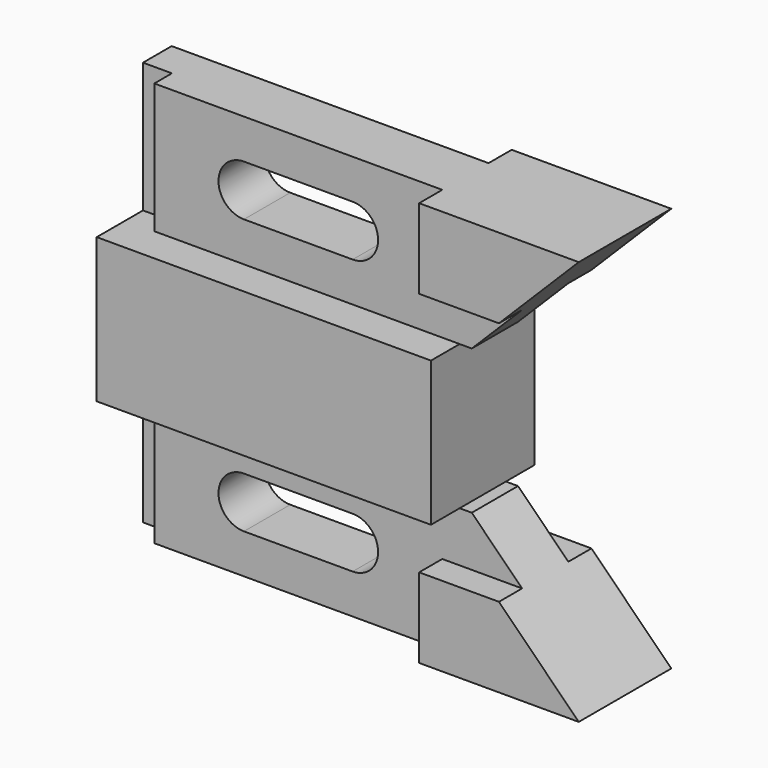
from build123d import *

# Parameters (mm, degrees)
F0_W      = 104.648
F0_H      = 88.9
F1_DEPTH  = 12.7
F2_W      = 69.596
F2_H      = 6.35
F3_DEPTH  = 28.575
F4_W      = 69.596
F4_H      = 6.35
F5_DEPTH  = 28.575
F10_DEPTH = 1.524
F11_W     = 31.242
F11_H     = 31.75
F12_DEPTH = 28.449
F14_W     = 6.35
F14_H     = 11.049
F15_DEPTH = 35.053
F17_W     = 6.35
F17_H     = 11.049
F20_DEPTH = 35.053
F19_W     = 6.35
F19_H     = 11.049
F21_DEPTH = 35.053
F22_W     = 6.35
F22_H     = 11.049
F23_DEPTH = 35.053
F25_DEPTH = 26.925
F27_DEPTH = 20.575
F29_DEPTH = 20.575


with BuildPart() as f1:
    # F0 (on Front) → F1 (new body, symmetric)
    with BuildSketch(Plane.XZ):
        Rectangle(F0_W, F0_H)
    extrude(amount=F1_DEPTH, both=True)

    # F2 (on face) → F3 (cut)
    with BuildSketch(Plane.XY.offset(44.45)):
        with Locations((-17.526, 9.525)):
            Rectangle(F2_W, F2_H)
        Polygon((-45.974, -1.524), (-52.324, -1.524), (-52.324, -12.7), (17.272, -12.7), (17.272, -6.35), (-45.974, -6.35), align=None)
    extrude(amount=-F3_DEPTH, mode=Mode.SUBTRACT)

    # F4 (on face) → F5 (cut)
    with BuildSketch(Plane(origin=(0, 0, -44.45), x_dir=(1, 0, 0), z_dir=(0, 0, -1))):
        Polygon((-45.974, 6.35), (17.272, 6.35), (17.272, 12.7), (-52.324, 12.7), (-52.324, 1.524), (-45.974, 1.524), align=None)
        with Locations((-17.526, -9.525)):
            Rectangle(F4_W, F4_H)
    extrude(amount=-F5_DEPTH, mode=Mode.SUBTRACT)

    # F9 (on face) + F7 (on face) → F10 (join, symmetric)
    with BuildSketch(Plane(origin=(0, 12.7, 0), x_dir=(-1, 0, 0), z_dir=(0, 1, 0))):
        Polygon((52.324, 15.875), (-17.272, 15.875), (-52.324, 15.875), (-52.324, -15.875), (-17.272, -15.875), (52.324, -15.875), align=None)
    with BuildSketch(Plane.XZ.offset(12.7)):
        Polygon((52.324, -15.875), (52.324, 15.875), (17.272, 15.875), (-52.324, 15.875), (-52.324, -15.875), (17.272, -15.875), align=None)
    extrude(amount=F10_DEPTH, both=True, dir=(0, 1, 0))

    # F11 (on face) → F12 (cut, through all)
    with BuildSketch(Plane.XZ.offset(14.224)):
        with Locations((36.703, 0)):
            Rectangle(F11_W, F11_H)
    extrude(amount=-F12_DEPTH, mode=Mode.SUBTRACT)

    # F14 (on face) → F15 (cut, through all)
    with BuildSketch(Plane(origin=(17.272, 0, 0), x_dir=(0, -1, 0), z_dir=(-1, 0, 0))):
        with Locations((9.525, 21.3995)):
            Rectangle(F14_W, F14_H)
    extrude(amount=-F15_DEPTH, mode=Mode.SUBTRACT)

    # F17 (on face) → F20 (cut, through all)
    with BuildSketch(Plane(origin=(17.272, 0, 0), x_dir=(0, -1, 0), z_dir=(-1, 0, 0))):
        with Locations((-9.525, 21.3995)):
            Rectangle(F17_W, F17_H)
    extrude(amount=-F20_DEPTH, mode=Mode.SUBTRACT)

    # F19 (on face) → F21 (cut, through all)
    with BuildSketch(Plane(origin=(17.272, 0, 0), x_dir=(0, -1, 0), z_dir=(-1, 0, 0))):
        with Locations((-9.525, -21.3995)):
            Rectangle(F19_W, F19_H)
    extrude(amount=-F21_DEPTH, mode=Mode.SUBTRACT)

    # F22 (on face) → F23 (cut, through all)
    with BuildSketch(Plane(origin=(17.272, 0, 0), x_dir=(0, -1, 0), z_dir=(-1, 0, 0))):
        with Locations((9.525, -21.3995)):
            Rectangle(F22_W, F22_H)
    extrude(amount=-F23_DEPTH, mode=Mode.SUBTRACT)

    # F24 (on face) → F25 (cut, through all)
    with BuildSketch(Plane.XZ.offset(12.7)):
        Polygon((52.324, 26.924), (52.324, 44.45), (34.798, 26.924), align=None)
        Polygon((34.798, -26.924), (52.324, -44.45), (52.324, -26.924), align=None)
    extrude(amount=-F25_DEPTH, mode=Mode.SUBTRACT)

    # F26 (on face) → F27 (cut, through all)
    with BuildSketch(Plane.XZ.offset(6.35)):
        Polygon((23.749, -15.875), (34.798, -26.924), (52.324, -26.924), (52.324, -15.875), align=None)
        Polygon((52.324, 26.924), (34.798, 26.924), (23.749, 15.875), (52.324, 15.875), align=None)
    extrude(amount=-F27_DEPTH, mode=Mode.SUBTRACT)

    # F28 (on face) → F29 (cut, through all)
    with BuildSketch(Plane.XZ.offset(6.35)):
        with BuildLine():
            ThreePointArc((-26.289, -24.5745), (-22.3376873067, -26.2111873067), (-20.701, -30.1625))
            ThreePointArc((-20.701, -30.1625), (-22.3376873067, -34.1138126933), (-26.289, -35.7505))
            Line((-26.289, -35.7505), (-2.413, -35.7505))
            ThreePointArc((-2.413, -35.7505), (-8.001, -30.1625), (-2.413, -24.5745))
            Line((-2.413, -24.5745), (-26.289, -24.5745))
        make_face()
        with BuildLine():
            ThreePointArc((-26.289, -35.7505), (-22.3376873067, -34.1138126933), (-20.701, -30.1625))
            ThreePointArc((-20.701, -30.1625), (-22.3376873067, -26.2111873067), (-26.289, -24.5745))
            ThreePointArc((-26.289, -24.5745), (-31.877, -30.1625), (-26.289, -35.7505))
        make_face()
        with BuildLine():
            ThreePointArc((3.175, -30.1625), (1.5383126933, -26.2111873067), (-2.413, -24.5745))
            ThreePointArc((-2.413, -24.5745), (-8.001, -30.1625), (-2.413, -35.7505))
            ThreePointArc((-2.413, -35.7505), (1.5383126933, -34.1138126933), (3.175, -30.1625))
        make_face()
        with BuildLine():
            ThreePointArc((-26.289, 35.7505), (-22.3376873067, 34.1138126933), (-20.701, 30.1625))
            ThreePointArc((-20.701, 30.1625), (-22.3376873067, 26.2111873067), (-26.289, 24.5745))
            Line((-26.289, 24.5745), (-2.413, 24.5745))
            ThreePointArc((-2.413, 24.5745), (-8.001, 30.1625), (-2.413, 35.7505))
            Line((-2.413, 35.7505), (-26.289, 35.7505))
        make_face()
        with BuildLine():
            ThreePointArc((-26.289, 24.5745), (-22.3376873067, 26.2111873067), (-20.701, 30.1625))
            ThreePointArc((-20.701, 30.1625), (-22.3376873067, 34.1138126933), (-26.289, 35.7505))
            ThreePointArc((-26.289, 35.7505), (-31.877, 30.1625), (-26.289, 24.5745))
        make_face()
        with BuildLine():
            ThreePointArc((3.175, 30.1625), (1.5383126933, 34.1138126933), (-2.413, 35.7505))
            ThreePointArc((-2.413, 35.7505), (-8.001, 30.1625), (-2.413, 24.5745))
            ThreePointArc((-2.413, 24.5745), (1.5383126933, 26.2111873067), (3.175, 30.1625))
        make_face()
    extrude(amount=-F29_DEPTH, mode=Mode.SUBTRACT)


solid = f1.part
